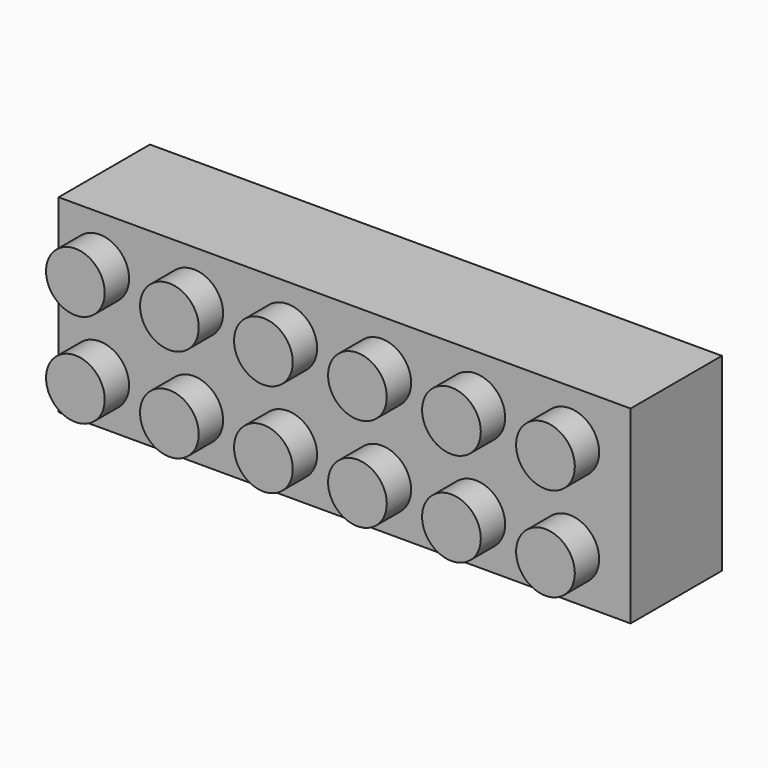
from build123d import *

# Parameters (mm, degrees)
F0_W     = 47.752
F0_H     = 15.7988
F1_DEPTH = 9.53
F2_R     = 2.4511
F3_DEPTH = 2.54
F4_T     = -1.27


with BuildPart() as f1:
    # F0 (on Front) → F1 (new body)
    with BuildSketch(Plane.XZ):
        with Locations((-10.3473756462, 23.7146833966)):
            Rectangle(F0_W, F0_H)
    extrude(amount=F1_DEPTH)

    # F2 (on face) → F3 (join)
    with BuildSketch(Plane.XZ.offset(9.53)):
        with Locations((8.4527879953, 27.5373833966)):
            Circle(F2_R)
        with Locations((8.4527879953, 19.6887833966)):
            Circle(F2_R)
        with Locations((0.6041879953, 27.5373833966)):
            Circle(F2_R)
        with Locations((0.6041879953, 19.6887833966)):
            Circle(F2_R)
        with Locations((-7.2444120047, 27.5373833966)):
            Circle(F2_R)
        with Locations((-7.2444120047, 19.6887833966)):
            Circle(F2_R)
        with Locations((-15.0930120047, 27.5373833966)):
            Circle(F2_R)
        with Locations((-15.0930120047, 19.6887833966)):
            Circle(F2_R)
        with Locations((-22.9416120047, 27.5373833966)):
            Circle(F2_R)
        with Locations((-22.9416120047, 19.6887833966)):
            Circle(F2_R)
        with Locations((-30.7902120047, 27.5373833966)):
            Circle(F2_R)
        with Locations((-30.7902120047, 19.6887833966)):
            Circle(F2_R)
    extrude(amount=F3_DEPTH)

    # F4
    f4_openings = [f1.faces().sort_by_distance(p)[0] for p in [
        (-10.347376, 0, 23.714683),
    ]]
    offset(amount=F4_T, openings=f4_openings, kind=Kind.INTERSECTION)


solid = f1.part
